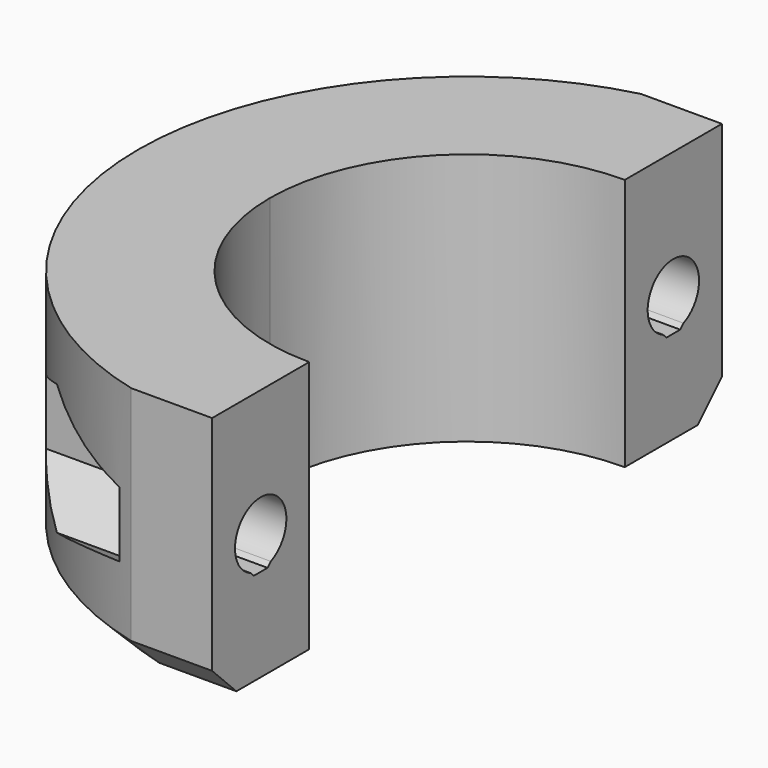
from build123d import *

# Parameters (mm, degrees)
PAD003_DEPTH    = 12.5
POCKET006_DEPTH = 182.8372896975
POCKET007_DEPTH = 24.5
CHAMFER002_SIZE = 3


with BuildPart() as part:
    # Sketch011 → Pad003 (new body, symmetric)
    with BuildSketch(Plane.XY):
        with BuildLine():
            ThreePointArc((0, 19.5), (-13.7885822331, 13.7885822331), (-19.5, 0))
            Line((-32.5, 0), (-19.5, 0))
            ThreePointArc((-8, 31.5), (-25.6539470647, 19.9530699392), (-32.5, 0))
            Line((0, 31.5), (-8, 31.5))
            Line((0, 31.5), (0, 19.5))
        make_face()
    pad003 = extrude(amount=PAD003_DEPTH, both=True)

    # Mirrored004: Pad003 across Sketch011 H_Axis
    add(pad003.mirror(Plane.ZX))

    # Sketch012 (on Face1 of Mirrored004) → Pocket006 (cut, through all)
    with BuildSketch(Plane.YZ):
        with BuildLine():
            ThreePointArc((26.75, -2.918582704), (25.5, 3.175), (24.25, -2.918582704))
            Line((24.25, -2.918582704), (24.65, -3.318582704))
            Line((24.65, -3.318582704), (26.35, -3.318582704))
            Line((26.35, -3.318582704), (26.75, -2.918582704))
        make_face()
    pocket006 = extrude(amount=-POCKET006_DEPTH, mode=Mode.SUBTRACT)

    # Mirrored005: Pocket006 across Sketch012 V_Axis
    add(pocket006.mirror(Plane(origin=(0, 0, 0), x_dir=(1, 0, 0), z_dir=(0, 1, 0))), mode=Mode.SUBTRACT)

    # Sketch013 (on DatumPlane) → Pocket007 (cut)
    with BuildSketch(Plane(origin=(-34, 0, 0), x_dir=(0, -1, 0), z_dir=(-1, 0, 0))):
        Polygon((-19.9, 3.2331615075), (-25.5, 6.4663230149), (-31.1, 3.2331615075), (-31.1, -3.2331615075), (-25.5, -6.4663230149), (-19.9, -3.2331615075), align=None)
    pocket007 = extrude(amount=-POCKET007_DEPTH, mode=Mode.SUBTRACT)

    # Mirrored006: Pocket007 across Sketch013 V_Axis
    add(pocket007.mirror(Plane(origin=(-34, 0, 0), x_dir=(-1, 0, 0), z_dir=(0, -1, 0))), mode=Mode.SUBTRACT)

    # Chamfer002
    chamfer002_edges = [part.edges().sort_by_distance(p)[0] for p in [
        (-4, -31.5, -12.5),
        (-25.653947, -19.95307, -12.5),
        (-25.653947, 19.95307, -12.5),
        (-4, 31.5, -12.5),
    ]]
    chamfer(chamfer002_edges, length=CHAMFER002_SIZE)


solid = part.part
